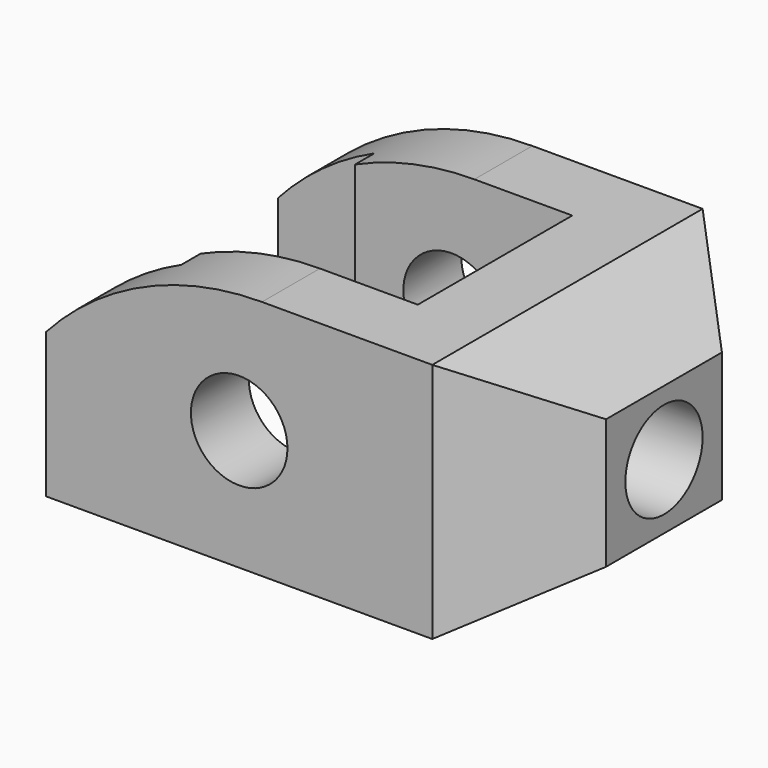
from build123d import *

# Parameters (mm, degrees)
SKETCH_R        = 10
PAD_DEPTH       = 35
POCKET_DEPTH    = 70.001
CHAMFER_SIZE    = 20
CHAMFER001_SIZE = 20
SKETCH002_R     = 10
POCKET001_DEPTH = 15
SKETCH003_W     = 81.266709
SKETCH003_H     = 40
POCKET002_DEPTH = 65
SKETCH004_W     = 95.373383
SKETCH004_H     = 50
POCKET003_DEPTH = 20


with BuildPart() as part:
    # Sketch → Pad (new body, symmetric)
    with BuildSketch(Plane.XZ):
        with BuildLine():
            Line((50, 50), (50, 0))
            Line((50, 0), (-50, 0))
            Line((-50, 0), (-50, 30))
            ThreePointArc((-5.278546, 50), (-29.773495, 44.772275), (-50, 30))
            Line((50, 50), (-5.278546, 50))
        make_face()
        with Locations((-10, 25)):
            Circle(SKETCH_R, mode=Mode.SUBTRACT)
    extrude(amount=PAD_DEPTH, both=True)

    # Sketch001 → Pocket (cut, through all)
    with BuildSketch(Plane.XZ.offset(35)):
        Polygon((50, 50), (30, 50), (50, 38.452995), align=None)
        Polygon((50, 0), (30, 0), (50, 11.547005), align=None)
    extrude(amount=-POCKET_DEPTH, mode=Mode.SUBTRACT)

    # Chamfer
    chamfer_edges = [part.edges().sort_by_distance(p)[0] for p in [
        (50, -35, 25),
    ]]
    chamfer(chamfer_edges, length=CHAMFER_SIZE)

    # Chamfer001
    chamfer001_edges = [part.edges().sort_by_distance(p)[0] for p in [
        (50, 35, 25),
    ]]
    chamfer(chamfer001_edges, length=CHAMFER001_SIZE)

    # Sketch002 → Pocket001 (cut)
    with BuildSketch(Plane(origin=(50, 0, 0), x_dir=(0, 0, 1), z_dir=(1, 0, 0))):
        with Locations((25, 0)):
            Circle(SKETCH002_R)
    extrude(amount=-POCKET001_DEPTH, mode=Mode.SUBTRACT)

    # Sketch003 → Pocket002 (cut)
    with BuildSketch(Plane(origin=(-50, 0, 0), x_dir=(0, 0, -1), z_dir=(-1, 0, 0))):
        with Locations((-25.823334, 0)):
            Rectangle(SKETCH003_W, SKETCH003_H)
    extrude(amount=-POCKET002_DEPTH, mode=Mode.SUBTRACT)

    # Sketch004 → Pocket003 (cut)
    with BuildSketch(Plane(origin=(-50, 0, 0), x_dir=(0, 0, -1), z_dir=(-1, 0, 0))):
        with Locations((-23.676658, 0)):
            Rectangle(SKETCH004_W, SKETCH004_H)
    extrude(amount=-POCKET003_DEPTH, mode=Mode.SUBTRACT)


solid = part.part
